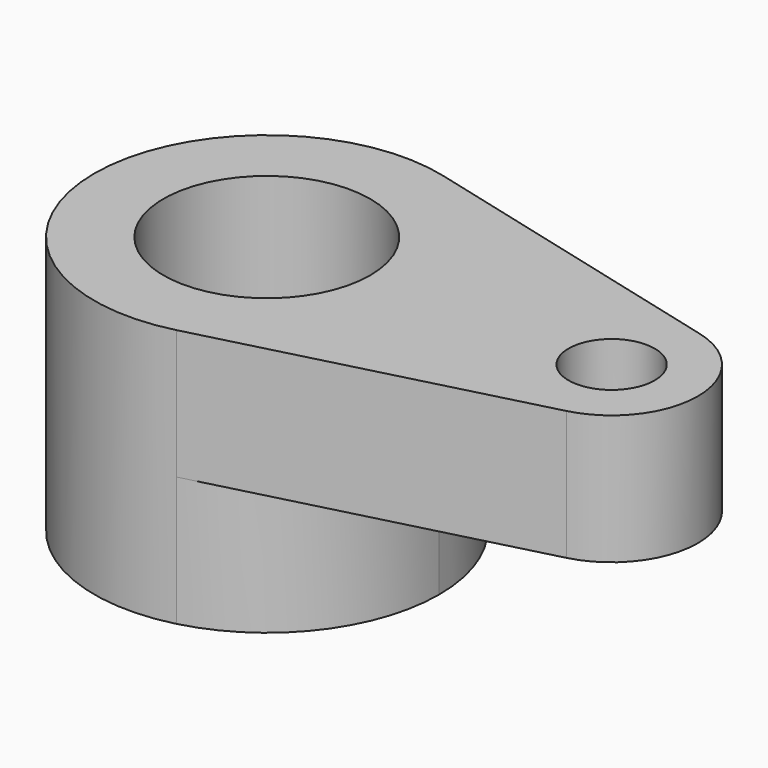
from build123d import *

# Parameters (mm, degrees)
F0_R     = 5
F1_DEPTH = 15
F0_R_2   = 12
F2_DEPTH = 30


with BuildPart() as f1:
    # F0 (on Top) → F1 (new body)
    with BuildSketch(Plane.XY):
        with BuildLine():
            ThreePointArc((5, 19.364917), (15.811388, 12.247449), (20, 0))
            ThreePointArc((20, 0), (15.811388, -12.247449), (5, -19.364917))
            Line((5, -19.364917), (42.5, -9.682458))
            ThreePointArc((42.5, -9.682458), (50, 0), (42.5, 9.682458))
            Line((42.5, 9.682458), (5, 19.364917))
        make_face()
        with Locations((40, 0)):
            Circle(F0_R, mode=Mode.SUBTRACT)
    extrude(amount=-F1_DEPTH)

    # F0 (on Top) → F2 (join)
    with BuildSketch(Plane.XY):
        with BuildLine():
            ThreePointArc((5, -19.364917), (15.811388, -12.247449), (20, 0))
            ThreePointArc((20, 0), (15.811388, 12.247449), (5, 19.364917))
            ThreePointArc((5, 19.364917), (-20, 0), (5, -19.364917))
        make_face()
        Circle(F0_R_2, mode=Mode.SUBTRACT)
    extrude(amount=-F2_DEPTH)


solid = f1.part
